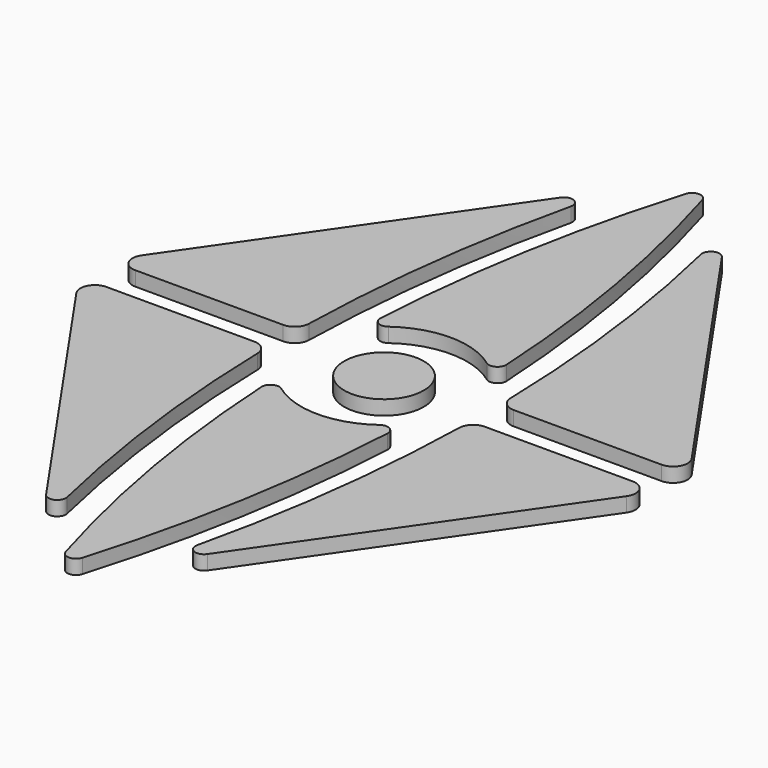
from build123d import *

# Parameters (mm, degrees)
F0_R     = 2.75
F1_DEPTH = 1


with BuildPart() as f1:
    # F0 (on Top) → F1 (new body)
    with BuildSketch(Plane.XY):
        with BuildLine():
            Line((-5.575209, 22.250894), (-19.027913, 2.81921))
            ThreePointArc((-19.027913, 2.81921), (-19.091501, 1.785893), (-18.205721, 1.25))
            Line((-18.205721, 1.25), (-7.973894, 1.25))
            ThreePointArc((-7.973894, 1.25), (-7.275038, 1.534737), (-6.974163, 2.226798))
            ThreePointArc((-6.974163, 2.226798), (-6.238777, 12.063745), (-4.497539, 21.773247))
            ThreePointArc((-4.497539, 21.773247), (-4.838771, 22.457904), (-5.575209, 22.250894))
        make_face()
        Circle(F0_R)
        with BuildLine():
            ThreePointArc((0.574804, 26.802819), (0, 27.230772), (-0.574804, 26.802819))
            ThreePointArc((-0.574804, 26.802819), (-3.105018, 16.088501), (-4.357964, 5.151009))
            ThreePointArc((-4.357964, 5.151009), (-4.044543, 4.590314), (-3.403706, 4.634359))
            ThreePointArc((-3.403706, 4.634359), (0, 5.75), (3.403706, 4.634359))
            ThreePointArc((3.403706, 4.634359), (4.044543, 4.590314), (4.357964, 5.151009))
            ThreePointArc((4.357964, 5.151009), (3.105018, 16.088501), (0.574804, 26.802819))
        make_face()
        with BuildLine():
            ThreePointArc((5.575209, 22.250894), (4.838771, 22.457904), (4.497539, 21.773247))
            ThreePointArc((4.497539, 21.773247), (6.238777, 12.063745), (6.974163, 2.226798))
            ThreePointArc((6.974163, 2.226798), (7.275038, 1.534737), (7.973894, 1.25))
            Line((7.973894, 1.25), (18.205721, 1.25))
            ThreePointArc((18.205721, 1.25), (19.091501, 1.785893), (19.027913, 2.81921))
            Line((19.027913, 2.81921), (5.575209, 22.250894))
        make_face()
        with BuildLine():
            Line((-7.973894, -1.25), (-18.205721, -1.25))
            ThreePointArc((-18.205721, -1.25), (-19.091501, -1.785893), (-19.027913, -2.81921))
            Line((-19.027913, -2.81921), (-5.575209, -22.250894))
            ThreePointArc((-5.575209, -22.250894), (-4.838771, -22.457904), (-4.497539, -21.773247))
            ThreePointArc((-4.497539, -21.773247), (-6.238777, -12.063745), (-6.974163, -2.226798))
            ThreePointArc((-6.974163, -2.226798), (-7.275038, -1.534737), (-7.973894, -1.25))
        make_face()
        with BuildLine():
            ThreePointArc((-4.357964, -5.151009), (-3.105018, -16.088501), (-0.574804, -26.802819))
            ThreePointArc((-0.574804, -26.802819), (0, -27.230772), (0.574804, -26.802819))
            ThreePointArc((0.574804, -26.802819), (3.105018, -16.088501), (4.357964, -5.151009))
            ThreePointArc((4.357964, -5.151009), (4.044543, -4.590314), (3.403706, -4.634359))
            ThreePointArc((3.403706, -4.634359), (0, -5.75), (-3.403706, -4.634359))
            ThreePointArc((-3.403706, -4.634359), (-4.044543, -4.590314), (-4.357964, -5.151009))
        make_face()
        with BuildLine():
            ThreePointArc((6.974163, -2.226798), (6.238777, -12.063745), (4.497539, -21.773247))
            ThreePointArc((4.497539, -21.773247), (4.838771, -22.457904), (5.575209, -22.250894))
            Line((5.575209, -22.250894), (19.027913, -2.81921))
            ThreePointArc((19.027913, -2.81921), (19.091501, -1.785893), (18.205721, -1.25))
            Line((18.205721, -1.25), (7.973894, -1.25))
            ThreePointArc((7.973894, -1.25), (7.275038, -1.534737), (6.974163, -2.226798))
        make_face()
    extrude(amount=F1_DEPTH)


solid = f1.part
